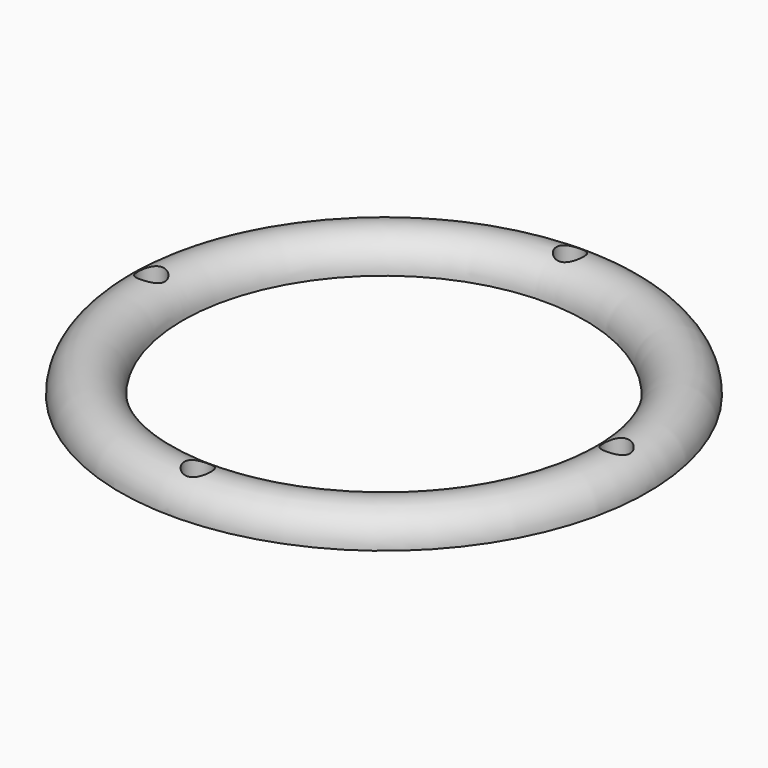
from build123d import *

# Parameters (mm, degrees)
F2_R     = 6
F3_DEPTH = 14
F5_R     = 6
F5_R_2   = 2.5
F6_DEPTH = 6
F7_COUNT = 4


with BuildPart() as f1:
    # F0 (on Front) → F1 (revolve)
    with BuildSketch(Plane.XZ):
        with BuildLine():
            Line((-118, 0), (-90, 0))
            ThreePointArc((-90, 0), (-104, 14), (-118, 0))
        make_face()
    revolve(axis=Axis((0, 0, 34.595653), (0, 0, 1)))

    # F2 (on Top) → F3 (cut)
    with BuildSketch(Plane.XY):
        with Locations((0, -104)):
            Circle(F2_R)
        with Locations((104, 0)):
            Circle(F2_R)
        with Locations((0, 104)):
            Circle(F2_R)
        with Locations((-104, 0)):
            Circle(F2_R)
    extrude(amount=F3_DEPTH, mode=Mode.SUBTRACT)

    # F5 (on offset) → F6 (join)
    with BuildSketch(Plane.XY.offset(6)):
        with Locations((104, 0)):
            Circle(F5_R)
        with Locations((104, 0)):
            Circle(F5_R_2, mode=Mode.SUBTRACT)
    extrude(amount=-F6_DEPTH)

    # F7: F1 ×4 about axis
    f7_axis = Axis((0, 0, 34.595653), (0, 0, 1))


with BuildPart() as f1_1:
    add(f1.part)
    for i in range(1, F7_COUNT):
        add(f1.part.rotate(f7_axis, i * 360 / F7_COUNT))


solid = f1_1.part
